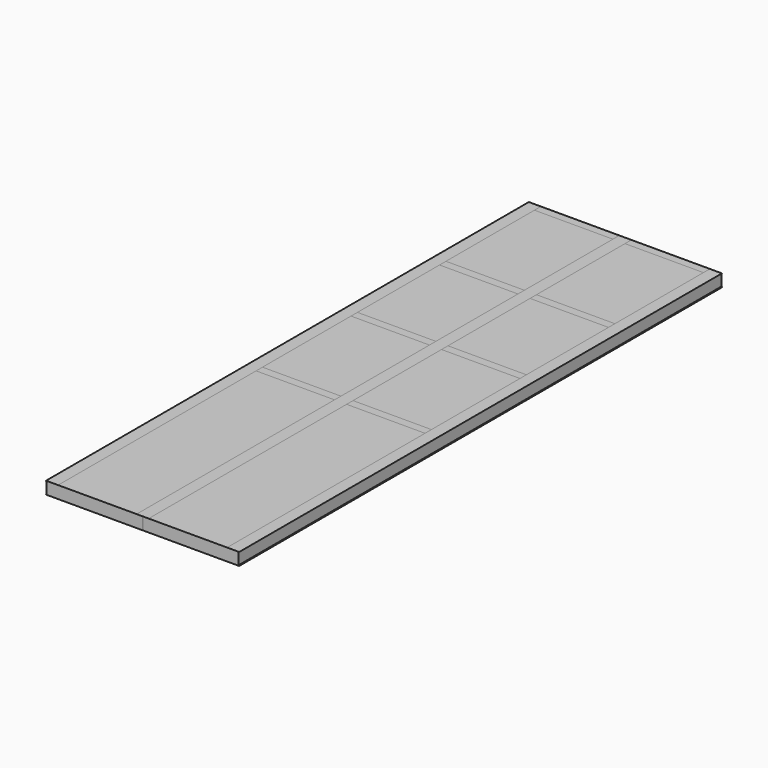
from build123d import *

# Parameters (mm, degrees)
F0_W     = 6.35
F0_H     = 142.875
F1_DEPTH = 7620
F2_W     = 6.35
F2_H     = 142.875
F3_DEPTH = 7620
F4_W     = 6.35
F4_H     = 142.875
F5_DEPTH = 7620
F7_DEPTH = 7620
F8_W     = 990.6
F8_H     = 101.6
F9_DEPTH = 6.35


with BuildPart() as f1:
    # F0 (on Front) → F1 (new body)
    with BuildSketch(Plane.XZ):
        Polygon((152.4, 0), (0, 0), (0, -6.35), (138.1125, -6.35), (144.4625, -6.35), (152.4, -6.35), align=None)
        with Locations((141.2875, -77.7875)):
            Rectangle(F0_W, F0_H)
        Polygon((144.4625, -149.225), (138.1125, -149.225), (0, -149.225), (0, -155.575), (152.4, -155.575), (152.4, -149.225), align=None)
    extrude(amount=F1_DEPTH)


with BuildPart() as f3:
    # F2 (on Front) → F3 (new body)
    with BuildSketch(Plane.XZ):
        Polygon((-2133.6, 0), (-2286, 0), (-2286, -6.35), (-2278.0625, -6.35), (-2271.7125, -6.35), (-2133.6, -6.35), align=None)
        with Locations((-2274.8875, -77.7875)):
            Rectangle(F2_W, F2_H)
        Polygon((-2271.7125, -149.225), (-2278.0625, -149.225), (-2286, -149.225), (-2286, -155.575), (-2133.6, -155.575), (-2133.6, -149.225), align=None)
    extrude(amount=F3_DEPTH)


with BuildPart() as f5:
    # F4 (on Front) → F5 (new body)
    with BuildSketch(Plane.XZ):
        Polygon((-990.6, 0), (-1143, 0), (-1143, -6.35), (-1069.975, -6.35), (-1063.625, -6.35), (-990.6, -6.35), align=None)
        with Locations((-1066.8, -77.7875)):
            Rectangle(F4_W, F4_H)
        Polygon((-1063.625, -149.225), (-1069.975, -149.225), (-1143, -149.225), (-1143, -155.575), (-990.6, -155.575), (-990.6, -149.225), align=None)
    extrude(amount=F5_DEPTH)


with BuildPart() as f7:
    # F6 (on Front) → F7 (new body)
    with BuildSketch(Plane.XZ):
        Polygon((0, -6.35), (0, 0), (-990.6, 0), (-990.6, -6.35), (-1063.625, -6.35), (-1063.625, -149.225), (-990.6, -149.225), (-990.6, -155.575), (0, -155.575), (0, -149.225), (138.1125, -149.225), (138.1125, -6.35), align=None)
        Polygon((-1143, -6.35), (-1143, 0), (-2133.6, 0), (-2133.6, -6.35), (-2271.7125, -6.35), (-2271.7125, -149.225), (-2133.6, -149.225), (-2133.6, -155.575), (-1143, -155.575), (-1143, -149.225), (-1069.975, -149.225), (-1069.975, -6.35), align=None)
    extrude(amount=F7_DEPTH)


with BuildPart() as f9:
    # F8 (on face) → F9 (new body)
    with BuildSketch(Plane.XY):
        with Locations((-495.3, -1549.4)):
            Rectangle(F8_W, F8_H)
        with Locations((-1638.3, -1549.4)):
            Rectangle(F8_W, F8_H)
        with Locations((-1638.3, -50.8)):
            Rectangle(F8_W, F8_H)
        with Locations((-495.3, -50.8)):
            Rectangle(F8_W, F8_H)
        with Locations((-495.3, -2946.4)):
            Rectangle(F8_W, F8_H)
        with Locations((-1638.3, -2946.4)):
            Rectangle(F8_W, F8_H)
        with Locations((-495.3, -4445)):
            Rectangle(F8_W, F8_H)
        with Locations((-1638.3, -4445)):
            Rectangle(F8_W, F8_H)
    extrude(amount=-F9_DEPTH)


solid = Compound([f1.part, f3.part, f5.part, f7.part, f9.part])
